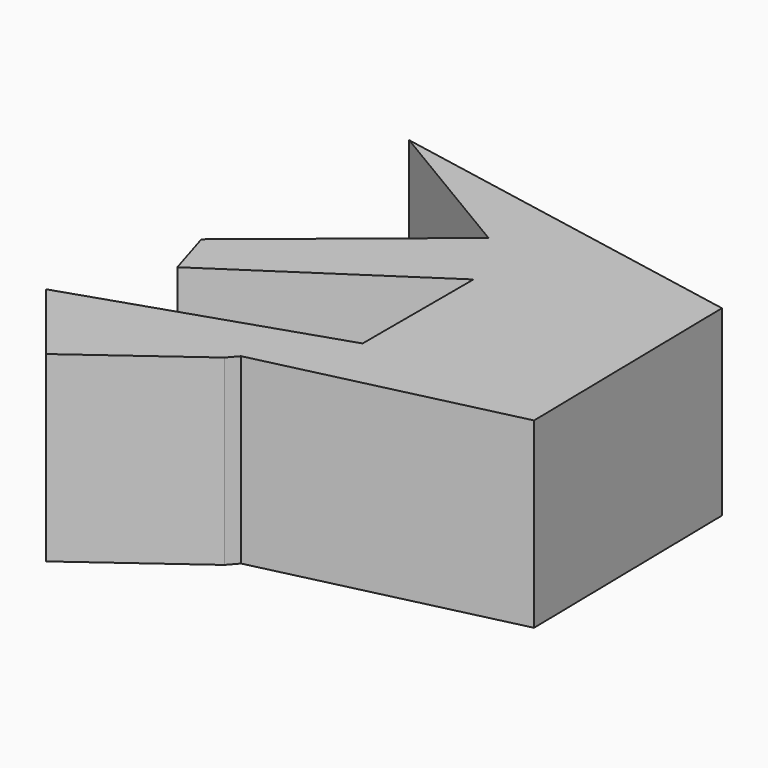
from build123d import *

# Parameters (mm, degrees)
F1_DEPTH = 84.783971


with BuildPart() as f1:
    # F0 (on Top) → F1 (new body)
    with BuildSketch(Plane.XY):
        Polygon((7.524773, -67.304969), (11.496186, -62.706485), (126.040071, -35.7427), (124.158859, 75.665854), (-46.820849, 107.855208), (23.619443, 65.841839), (-57.062924, 0), (-50.165206, -22.574335), (39.714128, 36.996849), (39.714128, -27.381822), (-76.501936, -65.841809), (-44.730633, -105.555937), align=None)
    extrude(amount=-F1_DEPTH)


solid = f1.part
